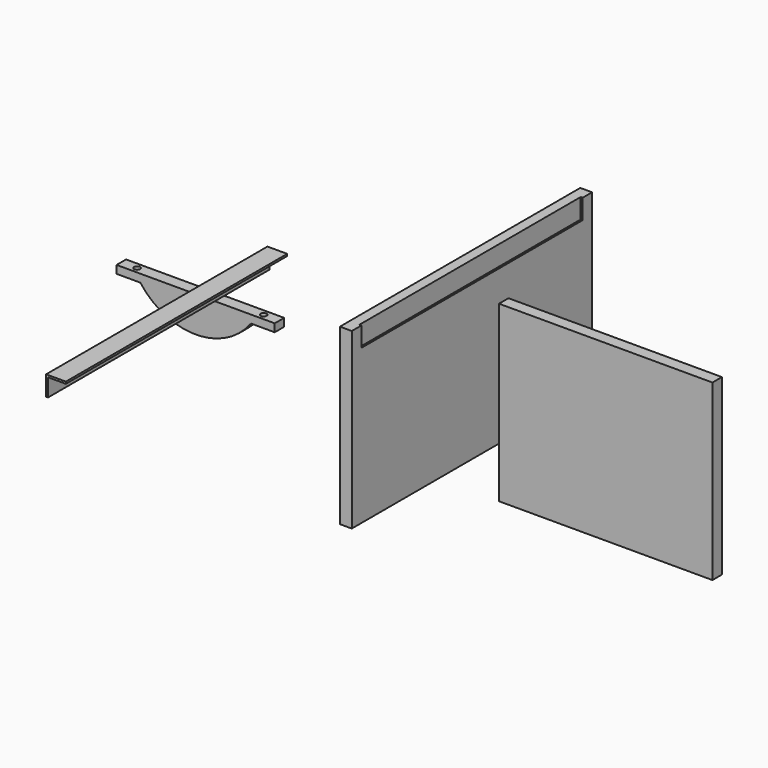
from build123d import *

# Parameters (mm, degrees)
F0_W      = 482.6
F0_H      = 279.4
F1_DEPTH  = 19.05
F2_W      = 342.9
F2_H      = 279.4
F3_DEPTH  = 19.05
F5_DEPTH  = 444.5
F6_W      = 444.5
F6_H      = 31.75
F7_DEPTH  = 3.175
F9_DEPTH  = 19.05
F10_R     = 4.7625
F11_DEPTH = 134.467782


with BuildPart() as f1:
    # F0 (on Right) → F1 (new body)
    with BuildSketch(Plane.YZ):
        with Locations((48.92646, 17.933218)):
            Rectangle(F0_W, F0_H)
    extrude(amount=F1_DEPTH)

    # F6 (on face) → F7 (cut)
    with BuildSketch(Plane.YZ.offset(19.05)):
        with Locations((48.92646, 141.758218)):
            Rectangle(F6_W, F6_H)
    extrude(amount=-F7_DEPTH, mode=Mode.SUBTRACT)


with BuildPart() as f3:
    # F2 (on Front) → F3 (new body)
    with BuildSketch(Plane.XZ):
        with Locations((288.305782, 17.933218)):
            Rectangle(F2_W, F2_H)
    extrude(amount=F3_DEPTH)


with BuildPart() as f5:
    # F4 (on Front) → F5 (new body)
    with BuildSketch(Plane.XZ):
        Polygon((-270.291884, 73.041052), (-267.116884, 73.041052), (-267.116884, 101.616052), (-238.541884, 101.616052), (-238.541884, 104.791052), (-270.291884, 104.791052), align=None)
    extrude(amount=F5_DEPTH)


with BuildPart() as f9:
    # F8 (on Front) → F9 (new body)
    with BuildSketch(Plane.XZ):
        with BuildLine():
            Line((-243.373358, 12.7), (-497.373358, 12.7))
            Line((-497.373358, 12.7), (-497.373358, 0))
            Line((-497.373358, 0), (-459.273358, 0))
            ThreePointArc((-459.273358, 0), (-370.373358, -44.45), (-281.473358, 0))
            Line((-281.473358, 0), (-243.373358, 0))
            Line((-243.373358, 0), (-243.373358, 12.7))
        make_face()
    extrude(amount=F9_DEPTH)

    # F10 (on face) → F11 (cut, through all)
    with BuildSketch(Plane.XY.offset(12.7)):
        with Locations((-471.973358, -9.525)):
            Circle(F10_R)
        with Locations((-268.773358, -9.525)):
            Circle(F10_R)
    extrude(amount=-F11_DEPTH, mode=Mode.SUBTRACT)


solid = Compound([f1.part, f3.part, f5.part, f9.part])
